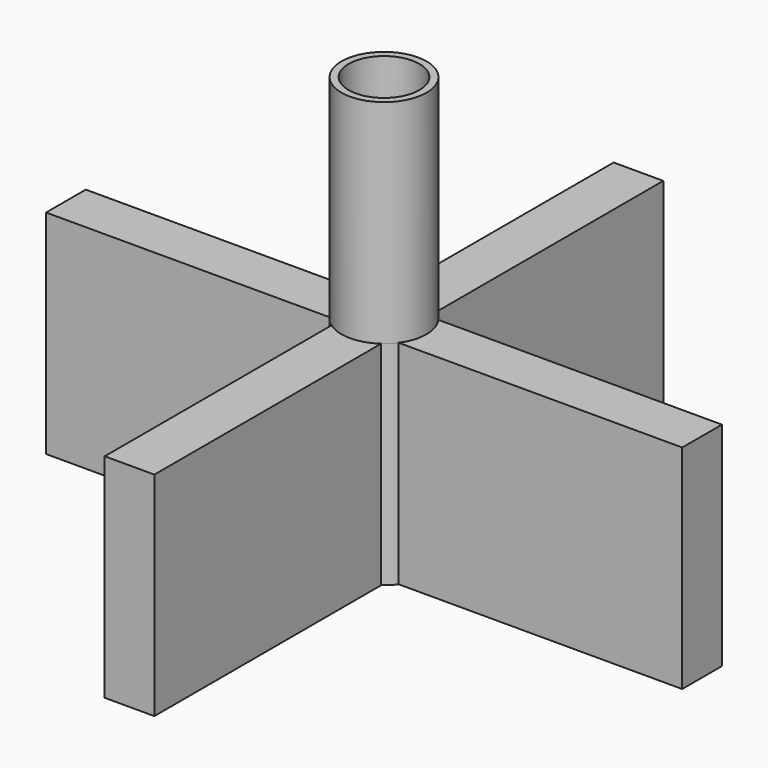
from build123d import *

# Parameters (mm, degrees)
F1_DEPTH = 15
F2_R     = 3
F3_DEPTH = 5
F4_R     = 3
F4_R_2   = 2.5
F5_DEPTH = 10


with BuildPart() as f1:
    # F0 (on Top) → F1 (new body)
    with BuildSketch(Plane.XY):
        with BuildLine():
            ThreePointArc((2.436699, 1.75), (2.855704, 0.919213), (3, 0))
            ThreePointArc((3, 0), (2.855704, -0.919213), (2.436699, -1.75))
            Line((2.436699, -1.75), (22.436699, -1.75))
            Line((22.436699, -1.75), (22.436699, 1.75))
            Line((22.436699, 1.75), (2.436699, 1.75))
        make_face()
        with BuildLine():
            ThreePointArc((2.436699, -1.75), (2.855704, -0.919213), (3, 0))
            ThreePointArc((3, 0), (2.855704, 0.919213), (2.436699, 1.75))
            ThreePointArc((2.436699, 1.75), (2.12132, 2.12132), (1.75, 2.436699))
            ThreePointArc((1.75, 2.436699), (0, 3), (-1.75, 2.436699))
            ThreePointArc((-1.75, 2.436699), (-2.12132, 2.12132), (-2.436699, 1.75))
            ThreePointArc((-2.436699, 1.75), (-3, 0), (-2.436699, -1.75))
            ThreePointArc((-2.436699, -1.75), (-2.12132, -2.12132), (-1.75, -2.436699))
            ThreePointArc((-1.75, -2.436699), (0, -3), (1.75, -2.436699))
            ThreePointArc((1.75, -2.436699), (2.12132, -2.12132), (2.436699, -1.75))
        make_face()
        with BuildLine():
            Line((1.75, -22.436699), (1.75, -2.436699))
            ThreePointArc((1.75, -2.436699), (0, -3), (-1.75, -2.436699))
            Line((-1.75, -2.436699), (-1.75, -22.436699))
            Line((-1.75, -22.436699), (1.75, -22.436699))
        make_face()
        with BuildLine():
            ThreePointArc((-2.436699, -1.75), (-3, 0), (-2.436699, 1.75))
            Line((-2.436699, 1.75), (-22.436699, 1.75))
            Line((-22.436699, 1.75), (-22.436699, -1.75))
            Line((-22.436699, -1.75), (-2.436699, -1.75))
        make_face()
        with BuildLine():
            ThreePointArc((-1.75, 2.436699), (0, 3), (1.75, 2.436699))
            Line((1.75, 2.436699), (1.75, 22.436699))
            Line((1.75, 22.436699), (-1.75, 22.436699))
            Line((-1.75, 22.436699), (-1.75, 2.436699))
        make_face()
    extrude(amount=F1_DEPTH)

    # F2 (on face) → F3 (join)
    with BuildSketch(Plane.XY.offset(15)):
        Circle(F2_R)
    extrude(amount=F3_DEPTH)

    # F4 (on face) → F5 (join)
    with BuildSketch(Plane.XY.offset(20)):
        Circle(F4_R)
        Circle(F4_R_2, mode=Mode.SUBTRACT)
    extrude(amount=F5_DEPTH)


solid = f1.part
